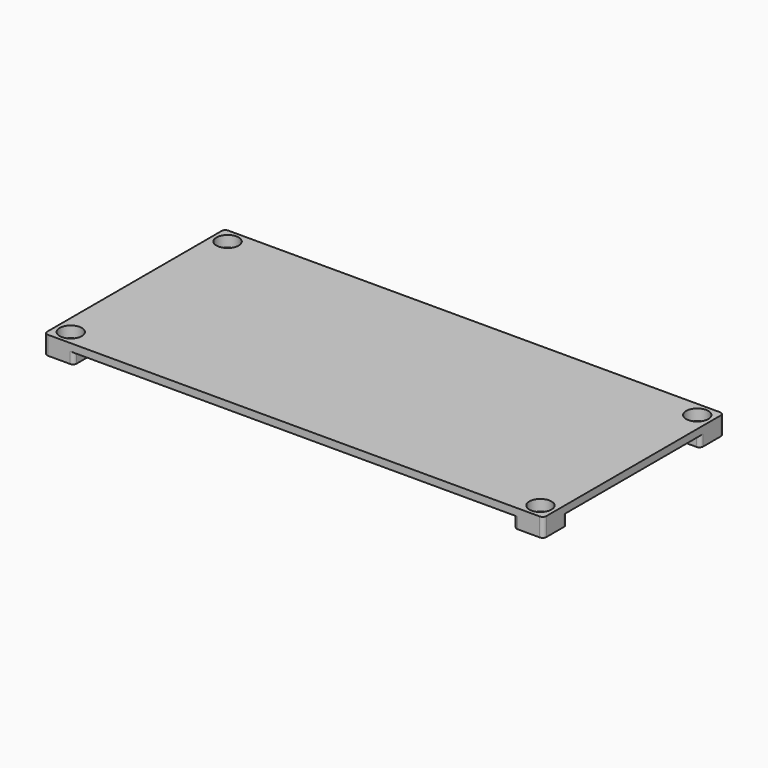
from build123d import *

# Parameters (mm, degrees)
SKETCH010_W     = 135
SKETCH010_H     = 61
PAD007_DEPTH    = 2
SKETCH011_W     = 8
SKETCH011_H     = 8
PAD008_DEPTH    = 3
SKETCH012_R     = 1.5
POCKET003_DEPTH = 5
SKETCH013_R     = 3
POCKET004_DEPTH = 3
FILLET002_R     = 1
FILLET003_R     = 1


with BuildPart() as part:
    # Sketch010 → Pad007 (new body)
    with BuildSketch(Plane.XY):
        Rectangle(SKETCH010_W, SKETCH010_H)
    extrude(amount=PAD007_DEPTH)

    # Sketch011 (on Face5 of Pad007) → Pad008 (join)
    with BuildSketch(Plane(origin=(0, 0, 0), x_dir=(1, 0, 0), z_dir=(0, 0, -1))):
        with Locations((-63.5, 26.5)):
            Rectangle(SKETCH011_W, SKETCH011_H)
        with Locations((-63.5, -26.5)):
            Rectangle(SKETCH011_W, SKETCH011_H)
        with Locations((63.5, -26.5)):
            Rectangle(SKETCH011_W, SKETCH011_H)
        with Locations((63.5, 26.5)):
            Rectangle(SKETCH011_W, SKETCH011_H)
    extrude(amount=PAD008_DEPTH)

    # Sketch012 (on Face15 of Pad008) → Pocket003 (cut)
    with BuildSketch(Plane.XY.offset(2)):
        with Locations((-63.5, 26.5)):
            Circle(SKETCH012_R)
        with Locations((-63.5, -26.5)):
            Circle(SKETCH012_R)
        with Locations((63.5, 26.5)):
            Circle(SKETCH012_R)
        with Locations((63.5, -26.5)):
            Circle(SKETCH012_R)
    extrude(amount=-POCKET003_DEPTH, mode=Mode.SUBTRACT)

    # Sketch013 (on Face16 of Pocket003) → Pocket004 (cut)
    with BuildSketch(Plane.XY.offset(2)):
        with Locations((-63.5, 26.5)):
            Circle(SKETCH013_R)
        with Locations((-63.5, -26.5)):
            Circle(SKETCH013_R)
        with Locations((63.5, -26.5)):
            Circle(SKETCH013_R)
        with Locations((63.5, 26.5)):
            Circle(SKETCH013_R)
    extrude(amount=-POCKET004_DEPTH, mode=Mode.SUBTRACT)

    # Fillet002
    fillet002_edges = [part.edges().sort_by_distance(p)[0] for p in [
        (67.5, -30.5, -0.5),
        (-67.5, -30.5, -0.5),
        (-67.5, 30.5, -0.5),
        (67.5, 30.5, -0.5),
    ]]
    fillet(fillet002_edges, radius=FILLET002_R)

    # Fillet003
    fillet003_edges = [part.edges().sort_by_distance(p)[0] for p in [
        (59.5, -22.5, -1.5),
        (59.5, 22.5, -1.5),
        (-59.5, 22.5, -1.5),
        (-59.5, -22.5, -1.5),
        (67.5, 22.5, -1.5),
        (59.5, 30.5, -1.5),
        (67.5, -22.5, -1.5),
        (59.5, -30.5, -1.5),
        (-59.5, -30.5, -1.5),
        (-67.5, -22.5, -1.5),
        (-67.5, 22.5, -1.5),
        (-59.5, 30.5, -1.5),
    ]]
    fillet(fillet003_edges, radius=FILLET003_R)


with BuildPart() as part_1:
    # Body002 placement: moved
    add(part.part.moved(Location((0, 0, -24))))


solid = part_1.part
